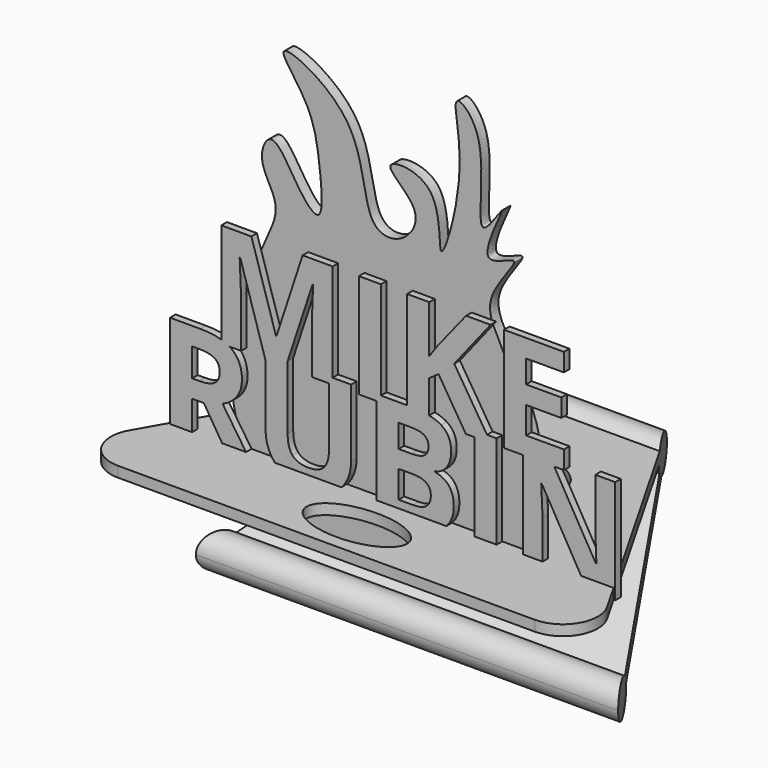
from build123d import *

# Parameters (mm, degrees)
F0_W          = 1.0188802083
F0_H          = 1.7534393064
F0_W_2        = 6.30859375
F0_H_2        = 3
F2_DEPTH      = 2
F0_W_3        = 1.240234375
F0_W_4        = 5.6380208333
F3_DEPTH      = 3
F0_W_5        = 12.7018229167
F0_W_6        = 7.4869791667
F0_W_7        = 13.7434895833
F4_DEPTH      = 60
F4_DEPTH_BACK = 25
F6_DEPTH      = 153.6263020833
F8_DEPTH      = 50
F9_R          = 10
F11_DEPTH     = 3


with BuildPart() as f2:
    # F0 (on Front) → F2 (new body)
    with BuildSketch(Plane.XZ):
        with BuildLine():
            Line((-44.8557019376, 35.4292458528), (-44.8557019376, 6.69079056))
            add(Edge.make_bspline(
                [(-44.8557019376, 6.69079056), (-43.5441977248, 6.2930370713), (-42.5364983304, 5.6831521028)],
                knots=[0.5813091989, 0.5813091989, 0.5813091989, 0.8913353435, 0.8913353435, 0.8913353435], degree=2))
            Line((-42.5364983304, 5.6831521028), (-39.2176811043, 5.6831521028))
            Line((-39.2176811043, 5.6831521028), (-39.2176811043, 19.5177875195))
            add(Edge.make_bspline(
                [(-39.6083061043, 29.0164854361), (-39.2176811043, 21.9006000194), (-39.2176811043, 19.5177875195)],
                knots=[0, 0, 0, 1, 1, 1], degree=2))
            Line((-39.6083061043, 29.0164854361), (-39.4260144376, 29.0164854361))
            Line((-39.4260144376, 29.0164854361), (-32.2645561043, 5.6831521028))
            Line((-32.2645561043, 5.6831521028), (-32.2027071459, 5.6831521028))
            Line((-32.2027071459, 5.6831521028), (-32.2027071459, 7.4365914091))
            Line((-32.2027071459, 7.4365914091), (-25.9201550626, 7.4365914091))
            Line((-25.9201550626, 7.4365914091), (-25.9201550626, 7.3936397319))
            Line((-25.9201550626, 7.3936397319), (-18.8140352709, 28.9774229361))
            Line((-18.8140352709, 28.9774229361), (-18.6317436043, 28.9774229361))
            add(Edge.make_bspline(
                [(-18.9051811043, 22.0633604361), (-18.8726290209, 23.3654437694), (-18.6317436043, 28.9774229361)],
                knots=[0, 0, 0, 1, 1, 1], degree=2))
            add(Edge.make_bspline(
                [(-18.9377331876, 19.7651833528), (-18.9377331876, 20.7612771028), (-18.9051811043, 22.0633604361)],
                knots=[0, 0, 0, 1, 1, 1], degree=2))
            Line((-18.9377331876, 19.7651833528), (-18.9377331876, 5.6831521028))
            Line((-18.9377331876, 5.6831521028), (-14.0777071459, 5.6831521028))
            Line((-14.0777071459, 5.6831521028), (-14.0777071459, 7.4365914091))
            Line((-14.0777071459, 7.4365914091), (-13.0588269376, 7.4365914091))
            Line((-13.0588269376, 7.4365914091), (-13.0588269376, 35.4292458528))
            Line((-13.0588269376, 35.4292458528), (-21.6395561043, 35.4292458528))
            Line((-21.6395561043, 35.4292458528), (-29.1070040209, 12.6818500195))
            Line((-29.1070040209, 12.6818500195), (-29.2307019376, 12.6818500195))
            Line((-29.2307019376, 12.6818500195), (-36.2684623543, 35.4292458528))
            Line((-36.2684623543, 35.4292458528), (-44.8557019376, 35.4292458528))
        make_face()
        with BuildLine():
            add(Edge.make_bspline(
                [(-29.5002020612, -19.3095023409), (-32.2027071459, -16.440026428), (-32.2027071459, -11.7300752575)],
                knots=[0.0772340564, 0.0772340564, 0.0772340564, 1, 1, 1], degree=2))
            Line((-29.5002020612, -19.3095023409), (-10.5755650639, -19.3095023409))
            add(Edge.make_bspline(
                [(-9.2632540209, -17.5894502575), (-9.8242429109, -18.5331004432), (-10.5755650639, -19.3095023409)],
                knots=[0, 0, 0, 0.3804322009, 0.3804322009, 0.3804322009], degree=2))
            add(Edge.make_bspline(
                [(-7.7886446459, -11.8082002575), (-7.7886446459, -15.1089815075), (-9.2632540209, -17.5894502575)],
                knots=[0, 0, 0, 1, 1, 1], degree=2))
            Line((-7.7886446459, -11.8082002575), (-7.7886446459, 7.4365914091))
            Line((-7.7886446459, 7.4365914091), (-13.0588269376, 7.4365914091))
            Line((-13.0588269376, 7.4365914091), (-13.0588269376, 5.6831521028))
            Line((-13.0588269376, 5.6831521028), (-14.0777071459, 5.6831521028))
            Line((-14.0777071459, 5.6831521028), (-14.0777071459, -10.7339815075))
            add(Edge.make_bspline(
                [(-15.4709363126, -15.8088512992), (-14.0777071459, -14.1910127575), (-14.0777071459, -10.7339815075)],
                knots=[0, 0, 0, 1, 1, 1], degree=2))
            add(Edge.make_bspline(
                [(-19.9566133959, -17.4266898409), (-16.8641654793, -17.4266898409), (-15.4709363126, -15.8088512992)],
                knots=[0, 0, 0, 1, 1, 1], degree=2))
            add(Edge.make_bspline(
                [(-24.5366915209, -15.8186169242), (-23.1532279793, -17.4266898409), (-19.9566133959, -17.4266898409)],
                knots=[0, 0, 0, 1, 1, 1], degree=2))
            add(Edge.make_bspline(
                [(-25.9201550626, -10.7730440075), (-25.9201550626, -14.2105440075), (-24.5366915209, -15.8186169242)],
                knots=[0, 0, 0, 1, 1, 1], degree=2))
            Line((-25.9201550626, -10.7730440075), (-25.9201550626, 7.3936397319))
            Line((-25.9201550626, 7.3936397319), (-26.4833061043, 5.6831521028))
            Line((-26.4833061043, 5.6831521028), (-32.2027071459, 5.6831521028))
            Line((-32.2027071459, 5.6831521028), (-32.2027071459, -11.7300752575))
        make_face()
        with BuildLine():
            Line((-59.5073946459, 7.4365914091), (-59.5073946459, -19.3095023409))
            Line((-59.5073946459, -19.3095023409), (-53.1988008959, -19.3095023409))
            Line((-53.1988008959, -19.3095023409), (-53.1988008959, -10.8967419242))
            Line((-53.1988008959, -10.8967419242), (-49.8459363126, -10.8967419242))
            Line((-49.8459363126, -10.8967419242), (-44.6101567264, -19.3095023409))
            Line((-44.6101567264, -19.3095023409), (-37.794103219, -19.3095023409))
            add(Edge.make_bspline(
                [(-44.4943738126, -9.3472627575), (-40.176030579, -15.7954865201), (-37.794103219, -19.3095023409)],
                knots=[0, 0, 0, 0.6427301557, 0.6427301557, 0.6427301557], degree=2))
            add(Edge.make_bspline(
                [(-40.4025769376, -6.1441377575), (-41.8446342293, -8.1884085909), (-44.4943738126, -9.3472627575)],
                knots=[0, 0, 0, 1, 1, 1], degree=2))
            add(Edge.make_bspline(
                [(-38.9605196459, -1.4761690075), (-38.9605196459, -4.0998669242), (-40.4025769376, -6.1441377575)],
                knots=[0, 0, 0, 1, 1, 1], degree=2))
            add(Edge.make_bspline(
                [(-41.8674206876, 5.2295601591), (-38.9605196459, 3.0225289091), (-38.9605196459, -1.4761690075)],
                knots=[0, 0, 0, 1, 1, 1], degree=2))
            add(Edge.make_bspline(
                [(-42.5364983304, 5.6831521028), (-42.1832980908, 5.4693864518), (-41.8674206876, 5.2295601591)],
                knots=[0.8913353435, 0.8913353435, 0.8913353435, 1, 1, 1], degree=2))
            Line((-42.5364983304, 5.6831521028), (-44.8557019376, 5.6831521028))
            Line((-44.8557019376, 5.6831521028), (-44.8557019376, 6.69079056))
            add(Edge.make_bspline(
                [(-50.8420300626, 7.4365914091), (-47.314815392, 7.4365914091), (-44.8557019376, 6.69079056)],
                knots=[0, 0, 0, 0.5813091989, 0.5813091989, 0.5813091989], degree=2))
            Line((-50.8420300626, 7.4365914091), (-59.5073946459, 7.4365914091))
        make_face()
        with BuildLine():
            Line((-51.1675508959, -5.7665335909), (-53.1988008959, -5.7665335909))
            Line((-53.1988008959, -5.7665335909), (-53.1988008959, 2.2673205758))
            Line((-53.1988008959, 2.2673205758), (-51.2847383959, 2.2673205758))
            add(Edge.make_bspline(
                [(-46.7827852709, 1.3721382841), (-48.2378633959, 2.2673205758), (-51.2847383959, 2.2673205758)],
                knots=[0, 0, 0, 1, 1, 1], degree=2))
            add(Edge.make_bspline(
                [(-45.3277071459, -1.6389294242), (-45.3277071459, 0.4769559925), (-46.7827852709, 1.3721382841)],
                knots=[0, 0, 0, 1, 1, 1], degree=2))
            add(Edge.make_bspline(
                [(-46.7502331876, -4.7704398409), (-45.3277071459, -3.7743460909), (-45.3277071459, -1.6389294242)],
                knots=[0, 0, 0, 1, 1, 1], degree=2))
            add(Edge.make_bspline(
                [(-51.1675508959, -5.7665335909), (-48.1727592293, -5.7665335909), (-46.7502331876, -4.7704398409)],
                knots=[0, 0, 0, 1, 1, 1], degree=2))
        make_face(mode=Mode.SUBTRACT)
        Polygon((-32.2027071459, 7.4365914091), (-32.2027071459, 5.6831521028), (-26.4833061043, 5.6831521028), (-25.9201550626, 7.3936397319), (-25.9201550626, 7.4365914091), align=None)
        with Locations((-13.5682670418, 6.559871756)):
            Rectangle(F0_W, F0_H)
        with BuildLine():
            add(Edge.make_bspline(
                [(-44.8557019376, 6.69079056), (-43.5441977248, 6.2930370713), (-42.5364983304, 5.6831521028)],
                knots=[0.5813091989, 0.5813091989, 0.5813091989, 0.8913353435, 0.8913353435, 0.8913353435], degree=2))
            Line((-44.8557019376, 6.69079056), (-44.8557019376, 5.6831521028))
            Line((-44.8557019376, 5.6831521028), (-42.5364983304, 5.6831521028))
        make_face()
        with BuildLine():
            add(Edge.make_bspline(
                [(-24.0449831317, -22.3095023409), (-27.0399584321, -21.6210366291), (-29.0288790209, -19.7769502575)],
                knots=[0.3733370206, 0.3733370206, 0.3733370206, 1, 1, 1], degree=2))
            Line((-24.0449831317, -22.3095023409), (-16.2018180354, -22.3095023409))
            add(Edge.make_bspline(
                [(-13.5275769376, -21.3947887992), (-14.7650904814, -21.982499432), (-16.2018180354, -22.3095023409)],
                knots=[0, 0, 0, 0.4435987872, 0.4435987872, 0.4435987872], degree=2))
            add(Edge.make_bspline(
                [(-10.5755650639, -19.3095023409), (-11.7991602584, -20.5739421382), (-13.5275769376, -21.3947887992)],
                knots=[0.3804322009, 0.3804322009, 0.3804322009, 1, 1, 1], degree=2))
            Line((-10.5755650639, -19.3095023409), (-29.5002020612, -19.3095023409))
            add(Edge.make_bspline(
                [(-29.0288790209, -19.7769502575), (-29.2740066413, -19.5496729562), (-29.5002020612, -19.3095023409)],
                knots=[0, 0, 0, 0.0772340564, 0.0772340564, 0.0772340564], degree=2))
        make_face()
        with BuildLine():
            Line((-44.6101567264, -19.3095023409), (-42.7430717293, -22.3095023409))
            Line((-42.7430717293, -22.3095023409), (-35.7443738126, -22.3095023409))
            add(Edge.make_bspline(
                [(-37.794103219, -19.3095023409), (-36.4700781838, -21.2628133439), (-35.7443738126, -22.3095023409)],
                knots=[0.6427301557, 0.6427301557, 0.6427301557, 1, 1, 1], degree=2))
            Line((-37.794103219, -19.3095023409), (-44.6101567264, -19.3095023409))
        make_face()
        with Locations((-56.3530977709, -20.8095023409)):
            Rectangle(F0_W_2, F0_H_2)
        with BuildLine():
            Line((-16.2018180354, -22.3095023409), (-24.0449831317, -22.3095023409))
            add(Edge.make_bspline(
                [(-20.1193738126, -22.7196585909), (-22.2607144062, -22.7196585909), (-24.0449831317, -22.3095023409)],
                knots=[0, 0, 0, 0.3733370206, 0.3733370206, 0.3733370206], degree=2))
            add(Edge.make_bspline(
                [(-16.2018180354, -22.3095023409), (-18.0038900348, -22.7196585909), (-20.1193738126, -22.7196585909)],
                knots=[0.4435987872, 0.4435987872, 0.4435987872, 1, 1, 1], degree=2))
        make_face()
    extrude(amount=F2_DEPTH)



with BuildPart() as f2b:
    # F0 (on Front) → F2, piece 2 (new body)
    with BuildSketch(Plane.XZ):
        Polygon((-5.5718477709, 5.6831521028), (-0.5034883959, 5.6831521028), (-0.5034883959, 7.4365914091), (0.7367459791, 7.4365914091), (0.7367459791, 35.4292458528), (-5.5718477709, 35.4292458528), align=None)
        with BuildLine():
            Line((24.9880480624, 5.6831521028), (27.4913032707, 5.6831521028))
            Line((27.4913032707, 5.6831521028), (27.4913032707, 7.4365914091))
            Line((27.4913032707, 7.4365914091), (31.0438827106, 7.4365914091))
            Line((31.0438827106, 7.4365914091), (21.6937772291, 22.2651833528))
            Line((21.6937772291, 22.2651833528), (32.0713813957, 35.4292458528))
            Line((32.0713813957, 35.4292458528), (25.0726834791, 35.4292458528))
            Line((25.0726834791, 35.4292458528), (17.0127876457, 25.3185687694))
            Line((17.0127876457, 25.3185687694), (14.5323188957, 21.8159646028))
            Line((14.5323188957, 21.8159646028), (14.5323188957, 35.4292458528))
            Line((14.5323188957, 35.4292458528), (8.2237251457, 35.4292458528))
            Line((8.2237251457, 35.4292458528), (8.2237251457, 7.4365914091))
            Line((8.2237251457, 7.4365914091), (8.7543241041, 7.4365914091))
            add(Edge.make_bspline(
                [(8.7543241041, 7.4365914091), (12.1399535539, 7.4365914091), (14.5323188957, 6.921324006)],
                knots=[0, 0, 0, 0.5350130489, 0.5350130489, 0.5350130489], degree=2))
            Line((14.5323188957, 6.921324006), (14.5323188957, 16.3016416861))
            Line((14.5323188957, 16.3016416861), (17.1950793124, 18.2157041861))
            Line((17.1950793124, 18.2157041861), (24.9880480624, 5.6831521028))
        make_face()
        Polygon((27.4913032707, 7.4365914091), (27.4913032707, 5.6831521028), (32.1495063957, 5.6831521028), (31.0438827106, 7.4365914091), align=None)
        with BuildLine():
            Line((8.7543241041, 7.4365914091), (8.2237251457, 7.4365914091))
            Line((8.2237251457, 7.4365914091), (8.2237251457, 5.6831521028))
            Line((8.2237251457, 5.6831521028), (14.5323188957, 5.6831521028))
            Line((14.5323188957, 5.6831521028), (14.5323188957, 6.921324006))
            add(Edge.make_bspline(
                [(8.7543241041, 7.4365914091), (12.1399535539, 7.4365914091), (14.5323188957, 6.921324006)],
                knots=[0, 0, 0, 0.5350130489, 0.5350130489, 0.5350130489], degree=2))
        make_face()
        Polygon((27.4913032707, 5.6831521028), (27.4913032707, -19.3095023409), (33.7998970207, -19.3095023409), (33.7998970207, 7.4365914091), (31.0438827106, 7.4365914091), (32.1495063957, 5.6831521028), align=None)
        with BuildLine():
            Line((-0.5034883959, 5.6831521028), (-0.5034883959, -19.3095023409))
            Line((-0.5034883959, -19.3095023409), (19.4252180188, -19.3095023409))
            add(Edge.make_bspline(
                [(21.5538032707, -13.6832002575), (21.5538032707, -17.1438744676), (19.4252180188, -19.3095023409)],
                knots=[0, 0, 0, 0.8504952939, 0.8504952939, 0.8504952939], degree=2))
            add(Edge.make_bspline(
                [(20.3005480624, -9.0835908825), (21.5538032707, -10.8121065075), (21.5538032707, -13.6832002575)],
                knots=[0, 0, 0, 1, 1, 1], degree=2))
            add(Edge.make_bspline(
                [(16.2217720207, -6.7235648409), (19.0472928541, -7.3550752575), (20.3005480624, -9.0835908825)],
                knots=[0, 0, 0, 1, 1, 1], degree=2))
            Line((16.2217720207, -6.7235648409), (16.2217720207, -6.5217419242))
            add(Edge.make_bspline(
                [(19.5485949374, -4.4677054659), (18.2985949374, -6.1766898409), (16.2217720207, -6.5217419242)],
                knots=[0, 0, 0, 1, 1, 1], degree=2))
            add(Edge.make_bspline(
                [(20.7985949374, -0.0894502575), (20.7985949374, -2.7587210909), (19.5485949374, -4.4677054659)],
                knots=[0, 0, 0, 1, 1, 1], degree=2))
            add(Edge.make_bspline(
                [(17.9405220207, 5.6364612008), (20.7985949374, 3.8363309925), (20.7985949374, -0.0894502575)],
                knots=[0, 0, 0, 1, 1, 1], degree=2))
            add(Edge.make_bspline(
                [(14.5323188957, 6.921324006), (16.6115554091, 6.473498258), (17.9405220207, 5.6364612008)],
                knots=[0.5350130489, 0.5350130489, 0.5350130489, 1, 1, 1], degree=2))
            Line((14.5323188957, 6.921324006), (14.5323188957, 5.6831521028))
            Line((14.5323188957, 5.6831521028), (8.2237251457, 5.6831521028))
            Line((8.2237251457, 5.6831521028), (8.2237251457, 7.4365914091))
            Line((8.2237251457, 7.4365914091), (0.7367459791, 7.4365914091))
            Line((0.7367459791, 7.4365914091), (0.7367459791, 5.6831521028))
            Line((0.7367459791, 5.6831521028), (-0.5034883959, 5.6831521028))
        make_face()
        with BuildLine():
            Line((5.8051053541, -17.1011690075), (5.8051053541, -9.3472627575))
            Line((5.8051053541, -9.3472627575), (9.7113553541, -9.3472627575))
            add(Edge.make_bspline(
                [(14.9978136874, -13.0516898409), (14.9978136874, -9.3472627575), (9.7113553541, -9.3472627575)],
                knots=[0, 0, 0, 1, 1, 1], degree=2))
            add(Edge.make_bspline(
                [(13.7575793124, -16.1050752575), (14.9978136874, -15.1089815075), (14.9978136874, -13.0516898409)],
                knots=[0, 0, 0, 1, 1, 1], degree=2))
            add(Edge.make_bspline(
                [(9.9131782707, -17.1011690075), (12.5173449374, -17.1011690075), (13.7575793124, -16.1050752575)],
                knots=[0, 0, 0, 1, 1, 1], degree=2))
            Line((9.9131782707, -17.1011690075), (5.8051053541, -17.1011690075))
        make_face(mode=Mode.SUBTRACT)
        with BuildLine():
            Line((9.4639595207, -4.3472627575), (5.8051053541, -4.3472627575))
            Line((5.8051053541, -4.3472627575), (5.8051053541, 2.2673205758))
            Line((5.8051053541, 2.2673205758), (9.1189074374, 2.2673205758))
            add(Edge.make_bspline(
                [(13.0772407707, 1.5251330758), (11.8272407707, 2.2673205758), (9.1189074374, 2.2673205758)],
                knots=[0, 0, 0, 1, 1, 1], degree=2))
            add(Edge.make_bspline(
                [(14.3272407707, -0.9292940075), (14.3272407707, 0.7829455758), (13.0772407707, 1.5251330758)],
                knots=[0, 0, 0, 1, 1, 1], degree=2))
            add(Edge.make_bspline(
                [(13.1781522291, -3.5529919242), (14.3272407707, -2.7587210909), (14.3272407707, -0.9292940075)],
                knots=[0, 0, 0, 1, 1, 1], degree=2))
            add(Edge.make_bspline(
                [(9.4639595207, -4.3472627575), (12.0290636874, -4.3472627575), (13.1781522291, -3.5529919242)],
                knots=[0, 0, 0, 1, 1, 1], degree=2))
        make_face(mode=Mode.SUBTRACT)
        with Locations((0.1166287916, 6.559871756)):
            Rectangle(F0_W_3, F0_H)
        with Locations((30.6456001457, -20.8095023409)):
            Rectangle(F0_W_2, F0_H_2)
        with BuildLine():
            Line((-0.5034883959, -19.3095023409), (-0.5034883959, -22.3095023409))
            Line((-0.5034883959, -22.3095023409), (10.6228136874, -22.3095023409))
            add(Edge.make_bspline(
                [(18.6110949374, -20.0308565075), (15.6683866041, -22.3095023409), (10.6228136874, -22.3095023409)],
                knots=[0, 0, 0, 1, 1, 1], degree=2))
            add(Edge.make_bspline(
                [(19.4252180188, -19.3095023409), (19.051043682, -19.6901882319), (18.6110949374, -20.0308565075)],
                knots=[0.8504952939, 0.8504952939, 0.8504952939, 1, 1, 1], degree=2))
            Line((19.4252180188, -19.3095023409), (-0.5034883959, -19.3095023409))
        make_face()
    extrude(amount=F2_DEPTH)


with BuildPart() as f2c:
    # F0 (on Front) → F2, piece 3 (new body)
    with BuildSketch(Plane.XZ):
        Polygon((35.8929959791, 5.6831521028), (41.2868761874, 5.6831521028), (41.2868761874, 7.4365914091), (49.2426053541, 7.4365914091), (50.2592107263, 5.6831521028), (53.0219022291, 5.6831521028), (53.0219022291, 10.8914854361), (42.2015897291, 10.8914854361), (42.2015897291, 18.5607562695), (52.2732043124, 18.5607562695), (52.2732043124, 23.7300271028), (42.2015897291, 23.7300271028), (42.2015897291, 30.2599750194), (53.0219022291, 30.2599750194), (53.0219022291, 35.4292458528), (35.8929959791, 35.4292458528), align=None)
        Polygon((41.2868761874, 7.4365914091), (41.2868761874, 5.6831521028), (50.2592107263, 5.6831521028), (49.2426053541, 7.4365914091), align=None)
        with BuildLine():
            Line((41.2868761874, 5.6831521028), (41.2868761874, -19.3095023409))
            Line((41.2868761874, -19.3095023409), (46.9248970207, -19.3095023409))
            Line((46.9248970207, -19.3095023409), (46.9248970207, -8.3121065075))
            add(Edge.make_bspline(
                [(46.5342720207, 0.1904976591), (46.9248970207, -5.7665335909), (46.9248970207, -8.3121065075)],
                knots=[0, 0, 0, 1, 1, 1], degree=2))
            Line((46.5342720207, 0.1904976591), (46.7165636874, 0.1904976591))
            Line((46.7165636874, 0.1904976591), (57.9335775763, -19.3095023409))
            Line((57.9335775763, -19.3095023409), (67.6735949374, -19.3095023409))
            Line((67.6735949374, -19.3095023409), (67.6735949374, 7.4365914091))
            Line((67.6735949374, 7.4365914091), (61.9965116041, 7.4365914091))
            Line((61.9965116041, 7.4365914091), (61.9965116041, -6.6454398409))
            add(Edge.make_bspline(
                [(62.3025011874, -14.8420544242), (61.9965116041, -9.0412731742), (61.9965116041, -6.6454398409)],
                knots=[0, 0, 0, 1, 1, 1], degree=2))
            Line((62.3025011874, -14.8420544242), (62.1592720207, -14.8420544242))
            Line((62.1592720207, -14.8420544242), (50.2592107263, 5.6831521028))
            Line((50.2592107263, 5.6831521028), (41.2868761874, 5.6831521028))
        make_face()
        with Locations((44.1058866041, -20.8095023409)):
            Rectangle(F0_W_4, F0_H_2)
        Polygon((57.9335775763, -19.3095023409), (59.6592720207, -22.3095023409), (67.6735949374, -22.3095023409), (67.6735949374, -19.3095023409), align=None)
    extrude(amount=F2_DEPTH)


with BuildPart() as f2_1:
    add(f2.part)

    add(f2b.part)  # F3 merges F2b

    add(f2c.part)  # F3 merges F2c
    # F1 (on Front) → F3 (join)
    with BuildSketch(Plane.XZ):
        with BuildLine():
            add(Edge.make_bspline(
                [(0, -38.3086428046), (-10.6562041468, -37.6343037732), (-27.2092727559, -35.3771957003), (-39.0110973505, -25.8722163158), (-43.6495487897, -8.4108844068), (-44.9035304819, 5.1258447551), (-40.7576156295, 18.6108147614), (-33.8730141186, 34.4002762449), (-28.9224591761, 44.8385873747), (-36.7403988286, 53.6085274477), (-31.7955777404, 64.7121976404), (-24.4620801159, 49.363500241), (-16.8055869402, 42.553037928), (-18.496117084, 60.3322130711), (-20.5096252364, 72.580954239), (-35.1615423896, 88.9408725276), (-4.314102043, 74.3112250977), (-6.6540296531, 47.2187552679), (5.3325763281, 45.5698245278), (12.7016860264, 56.4356180155), (-4.624265034, 66.5374577427), (17.5864441132, 66.3026003109), (14.1893655117, 36.7221587073), (24.7411380047, 71.641374982), (17.5916989663, 91.8511730401), (31.017484281, 80.3569288665), (24.4352058195, 48.9209042239), (38.2381191175, 71.7108497797), (24.1347561982, 45.2234003266), (42.5057476029, 56.4982583854), (27.4989732278, 40.6950614917), (33.3428832149, 30.406064126), (42.3002151866, 11.491128327), (44.8423819623, -7.1550526362), (35.9582568642, -38.9760589114), (11.5755079208, -39.041156624), (0, -38.3086428046)],
                knots=[0, 0, 0, 0, 0.0405749728, 0.0691789348, 0.1012930138, 0.1296962654, 0.1585596392, 0.1909714073, 0.2158798599, 0.2410235682, 0.2603566409, 0.2889871921, 0.3082479997, 0.335711514, 0.3666105324, 0.3926890999, 0.4279984468, 0.4665441111, 0.4879383545, 0.5117131616, 0.5375707835, 0.5633696256, 0.593241516, 0.6308137118, 0.6619433832, 0.6866717797, 0.7222678288, 0.7439428806, 0.7723902278, 0.7932646494, 0.8200368423, 0.8463750452, 0.881156538, 0.9153363224, 0.9559246508, 1, 1, 1, 1], degree=3))
        make_face()
    extrude(amount=-F3_DEPTH)

    # F0 (on Front) → F4 (join, two sides)
    with BuildSketch(Plane.XZ) as f4_sk:
        with Locations((74.0245063957, -20.8095023409)):
            Rectangle(F0_W_5, F0_H_2)
        Polygon((57.9335775763, -19.3095023409), (59.6592720207, -22.3095023409), (67.6735949374, -22.3095023409), (67.6735949374, -19.3095023409), align=None)
        Polygon((46.9248970207, -19.3095023409), (46.9248970207, -22.3095023409), (59.6592720207, -22.3095023409), (57.9335775763, -19.3095023409), align=None)
        with Locations((44.1058866041, -20.8095023409)):
            Rectangle(F0_W_4, F0_H_2)
        with Locations((37.5433866041, -20.8095023409)):
            Rectangle(F0_W_6, F0_H_2)
        with Locations((30.6456001457, -20.8095023409)):
            Rectangle(F0_W_2, F0_H_2)
        with BuildLine():
            add(Edge.make_bspline(
                [(18.6110949374, -20.0308565075), (15.6683866041, -22.3095023409), (10.6228136874, -22.3095023409)],
                knots=[0, 0, 0, 1, 1, 1], degree=2))
            Line((10.6228136874, -22.3095023409), (27.4913032707, -22.3095023409))
            Line((27.4913032707, -22.3095023409), (27.4913032707, -19.3095023409))
            Line((27.4913032707, -19.3095023409), (19.4252180188, -19.3095023409))
            add(Edge.make_bspline(
                [(19.4252180188, -19.3095023409), (19.051043682, -19.6901882319), (18.6110949374, -20.0308565075)],
                knots=[0.8504952939, 0.8504952939, 0.8504952939, 1, 1, 1], degree=2))
        make_face()
        with BuildLine():
            Line((-0.5034883959, -19.3095023409), (-0.5034883959, -22.3095023409))
            Line((-0.5034883959, -22.3095023409), (10.6228136874, -22.3095023409))
            add(Edge.make_bspline(
                [(18.6110949374, -20.0308565075), (15.6683866041, -22.3095023409), (10.6228136874, -22.3095023409)],
                knots=[0, 0, 0, 1, 1, 1], degree=2))
            add(Edge.make_bspline(
                [(19.4252180188, -19.3095023409), (19.051043682, -19.6901882319), (18.6110949374, -20.0308565075)],
                knots=[0.8504952939, 0.8504952939, 0.8504952939, 1, 1, 1], degree=2))
            Line((19.4252180188, -19.3095023409), (-0.5034883959, -19.3095023409))
        make_face()
        with BuildLine():
            add(Edge.make_bspline(
                [(-13.5275769376, -21.3947887992), (-14.7650904814, -21.982499432), (-16.2018180354, -22.3095023409)],
                knots=[0, 0, 0, 0.4435987872, 0.4435987872, 0.4435987872], degree=2))
            Line((-16.2018180354, -22.3095023409), (-0.5034883959, -22.3095023409))
            Line((-0.5034883959, -22.3095023409), (-0.5034883959, -19.3095023409))
            Line((-0.5034883959, -19.3095023409), (-10.5755650639, -19.3095023409))
            add(Edge.make_bspline(
                [(-10.5755650639, -19.3095023409), (-11.7991602584, -20.5739421382), (-13.5275769376, -21.3947887992)],
                knots=[0.3804322009, 0.3804322009, 0.3804322009, 1, 1, 1], degree=2))
        make_face()
        with Locations((-66.3791394376, -20.8095023409)):
            Rectangle(F0_W_7, F0_H_2)
        with Locations((-56.3530977709, -20.8095023409)):
            Rectangle(F0_W_2, F0_H_2)
        Polygon((-53.1988008959, -19.3095023409), (-53.1988008959, -22.3095023409), (-42.7430717293, -22.3095023409), (-44.6101567264, -19.3095023409), align=None)
        with BuildLine():
            Line((-44.6101567264, -19.3095023409), (-42.7430717293, -22.3095023409))
            Line((-42.7430717293, -22.3095023409), (-35.7443738126, -22.3095023409))
            add(Edge.make_bspline(
                [(-37.794103219, -19.3095023409), (-36.4700781838, -21.2628133439), (-35.7443738126, -22.3095023409)],
                knots=[0.6427301557, 0.6427301557, 0.6427301557, 1, 1, 1], degree=2))
            Line((-37.794103219, -19.3095023409), (-44.6101567264, -19.3095023409))
        make_face()
        with BuildLine():
            add(Edge.make_bspline(
                [(-37.794103219, -19.3095023409), (-36.4700781838, -21.2628133439), (-35.7443738126, -22.3095023409)],
                knots=[0.6427301557, 0.6427301557, 0.6427301557, 1, 1, 1], degree=2))
            Line((-35.7443738126, -22.3095023409), (-24.0449831317, -22.3095023409))
            add(Edge.make_bspline(
                [(-24.0449831317, -22.3095023409), (-27.0399584321, -21.6210366291), (-29.0288790209, -19.7769502575)],
                knots=[0.3733370206, 0.3733370206, 0.3733370206, 1, 1, 1], degree=2))
            add(Edge.make_bspline(
                [(-29.0288790209, -19.7769502575), (-29.2740066413, -19.5496729562), (-29.5002020612, -19.3095023409)],
                knots=[0, 0, 0, 0.0772340564, 0.0772340564, 0.0772340564], degree=2))
            Line((-29.5002020612, -19.3095023409), (-37.794103219, -19.3095023409))
        make_face()
        with BuildLine():
            add(Edge.make_bspline(
                [(-24.0449831317, -22.3095023409), (-27.0399584321, -21.6210366291), (-29.0288790209, -19.7769502575)],
                knots=[0.3733370206, 0.3733370206, 0.3733370206, 1, 1, 1], degree=2))
            Line((-24.0449831317, -22.3095023409), (-16.2018180354, -22.3095023409))
            add(Edge.make_bspline(
                [(-13.5275769376, -21.3947887992), (-14.7650904814, -21.982499432), (-16.2018180354, -22.3095023409)],
                knots=[0, 0, 0, 0.4435987872, 0.4435987872, 0.4435987872], degree=2))
            add(Edge.make_bspline(
                [(-10.5755650639, -19.3095023409), (-11.7991602584, -20.5739421382), (-13.5275769376, -21.3947887992)],
                knots=[0.3804322009, 0.3804322009, 0.3804322009, 1, 1, 1], degree=2))
            Line((-10.5755650639, -19.3095023409), (-29.5002020612, -19.3095023409))
            add(Edge.make_bspline(
                [(-29.0288790209, -19.7769502575), (-29.2740066413, -19.5496729562), (-29.5002020612, -19.3095023409)],
                knots=[0, 0, 0, 0.0772340564, 0.0772340564, 0.0772340564], degree=2))
        make_face()
    extrude(amount=-F4_DEPTH)
    extrude(f4_sk.sketch, amount=F4_DEPTH_BACK)

    # F5 (on face) → F6 (join, through all)
    with BuildSketch(Plane(origin=(-73.2508842293, 0, 0), x_dir=(0, -1, 0), z_dir=(-1, 0, 0))):
        with BuildLine():
            Line((-61.5, -24.9075785522), (-60, -22.3095023409))
            Line((-60, -22.3095023409), (-60, -19.3095023409))
            Line((-60, -19.3095023409), (-56, -19.3095023409))
            ThreePointArc((-56, -19.3095023409), (-64.8296291314, -21.0154071153), (-58.0358983849, -26.9075785522))
            Line((-58.0358983849, -26.9075785522), (-61.5, -24.9075785522))
        make_face()
        with BuildLine():
            Line((-55, -22.3095023409), (-60, -22.3095023409))
            Line((-60, -22.3095023409), (-55.6698729811, -24.8095023409))
            ThreePointArc((-55.6698729811, -24.8095023409), (-55.1703708686, -23.6035975664), (-55, -22.3095023409))
        make_face()
        with BuildLine():
            Line((-55.6698729811, -24.8095023409), (-60, -22.3095023409))
            Line((-60, -22.3095023409), (-61.5, -24.9075785522))
            Line((-61.5, -24.9075785522), (-58.0358983849, -26.9075785522))
            ThreePointArc((-58.0358983849, -26.9075785522), (-56.6826502338, -26.0505169797), (-55.6698729811, -24.8095023409))
        make_face()
        with BuildLine():
            Line((-12.1691536834, -49.9246543373), (-55.6698729811, -24.8095023409))
            ThreePointArc((-55.6698729811, -24.8095023409), (-56.6826502338, -26.0505169797), (-58.0358983849, -26.9075785522))
            Line((-58.0358983849, -26.9075785522), (-13.6691536834, -52.5227305487))
            ThreePointArc((-13.6691536834, -52.5227305487), (-13.1186027919, -51.1085404465), (-12.1691536834, -49.9246543373))
        make_face()
        with BuildLine():
            Line((-8.0384757729, -52.3095023409), (-12.1691536834, -49.9246543373))
            ThreePointArc((-12.1691536834, -49.9246543373), (-13.1186027919, -51.1085404465), (-13.6691536834, -52.5227305487))
            Line((-13.6691536834, -52.5227305487), (-9.5384757729, -54.9075785522))
            Line((-9.5384757729, -54.9075785522), (-8.0384757729, -52.3095023409))
        make_face()
        with BuildLine():
            ThreePointArc((-3.7884757729, -53.6085404465), (-6.7764357078, -49.031238318), (-12.1691536834, -49.9246543373))
            Line((-12.1691536834, -49.9246543373), (-8.0384757729, -52.3095023409))
            Line((-8.0384757729, -52.3095023409), (-9.5384757729, -54.9075785522))
            Line((-9.5384757729, -54.9075785522), (-13.6691536834, -52.5227305487))
            ThreePointArc((-13.6691536834, -52.5227305487), (-9.3346490273, -58.5786204032), (-3.7884757729, -53.6085404465))
        make_face()
    extrude(amount=-F6_DEPTH)

    # F7 (on face) → F8 (cut, symmetric)
    with BuildSketch(Plane.XY.offset(-19.3095023409)):
        Polygon((67.2052427725, -2), (80.3754178541, -25), (80.3754178541, 56), (33.9934969148, 56), (66.0600101568, 0), (67.6735949374, 0), (67.6735949374, -2), align=None)
        Polygon((33.9934969148, 56), (80.3754178541, 56), (80.3754178541, 65.4849378677), (28.5622668124, 65.4849378677), align=None)
        Polygon((-73.2508842293, 65.4849378677), (-73.2508842293, 56), (-26.86896329, 56), (-21.4377331876, 65.4849378677), align=None)
        Polygon((-73.2508842293, 56), (-73.2508842293, -25), (-59.5073946459, -0.998780695), (-59.5073946459, 0), (-58.935476532, 0), (-26.86896329, 56), align=None)
    extrude(amount=F8_DEPTH, both=True, mode=Mode.SUBTRACT)

    # F9
    f9_edges = [f2_1.edges().sort_by_distance(p)[0] for p in [
        (-73.250884, -25, -20.809502),
        (80.375418, -25, -20.809502),
    ]]
    fillet(f9_edges, radius=F9_R)

    # F10 (on face) → F11 (cut, through all)
    with BuildSketch(Plane.XY.offset(-19.3095023409)):
        with BuildLine():
            add(Edge.make_bspline(
                [(-10.7900137082, -14.1158215702), (-10.7900137082, -26.7489202115), (10.7384070727, -20.4323708908), (32.2668278535, -14.1158215702), (10.7384070727, -7.7992722495), (-10.7900137082, -1.4827229288), (-10.7900137082, -14.1158215702)],
                knots=[0, 0, 0, 2.0943951024, 2.0943951024, 4.1887902048, 4.1887902048, 6.2831853072, 6.2831853072, 6.2831853072], degree=2, weights=[1, 0.5, 1, 0.5, 1, 0.5, 1]))
        make_face()
        with BuildLine():
            add(Edge.make_bspline(
                [(-21.4377331876, 29.1688404977), (-21.4377331876, 10.1162816145), (16.0622668124, 19.6425610561), (53.5622668124, 29.1688404977), (16.0622668124, 38.6951199394), (-21.4377331876, 48.221399381), (-21.4377331876, 29.1688404977)],
                knots=[0, 0, 0, 2.0943951024, 2.0943951024, 4.1887902048, 4.1887902048, 6.2831853072, 6.2831853072, 6.2831853072], degree=2, weights=[1, 0.5, 1, 0.5, 1, 0.5, 1]))
        make_face()
    extrude(amount=-F11_DEPTH, mode=Mode.SUBTRACT)


solid = f2_1.part
